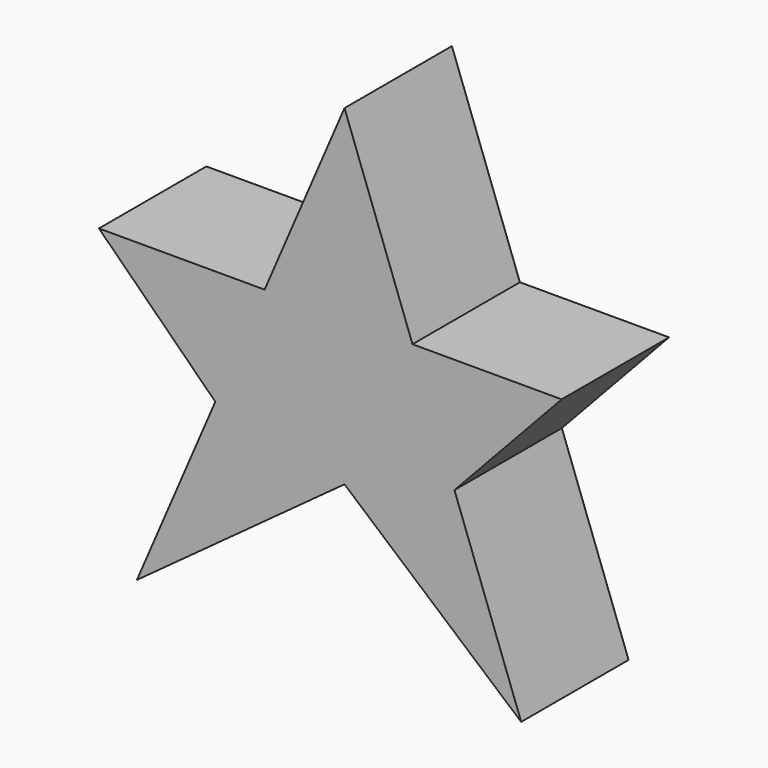
from build123d import *

# Parameters (mm, degrees)
F1_DEPTH = 25.4


with BuildPart() as f1:
    # F0 (on Front) → F1 (new body)
    with BuildSketch(Plane.XZ):
        Polygon((12.860392, 0), (0, 35.152197), (-15.112189, 0), (-24.446175, -21.711619), (-39.281469, -56.219734), (0, -27.512548), (33.428319, -56.219734), (20.803563, -21.711619), align=None)
        Polygon((41.081976, 0), (12.860392, 0), (20.803563, -21.711619), align=None)
        Polygon((-24.446175, -21.711619), (-15.112189, 0), (-46.456773, 0), align=None)
    extrude(amount=F1_DEPTH)


solid = f1.part
